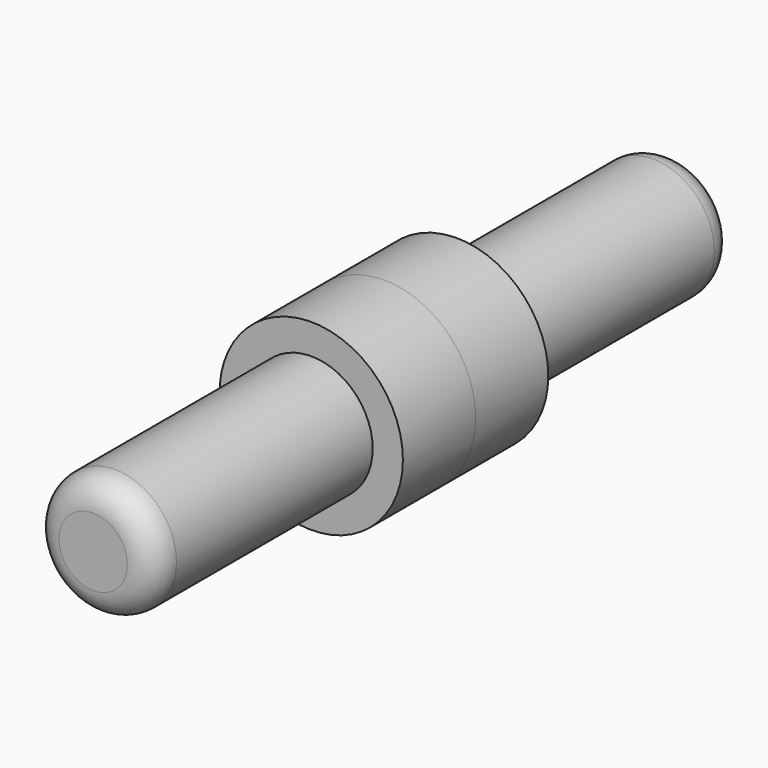
from build123d import *

# Parameters (mm, degrees)
F0_R     = 25.616531
F1_DEPTH = 25.4
F2_R     = 17.167247
F3_DEPTH = 76.2
F4_R     = 7.62


with BuildPart() as f1:
    # F0 (on Front) → F1 (new body)
    with BuildSketch(Plane.XZ):
        Circle(F0_R)
    extrude(amount=F1_DEPTH)

    # F2 (on face) → F3 (join)
    with BuildSketch(Plane.XZ.offset(25.4)):
        Circle(F2_R)
    extrude(amount=F3_DEPTH)

    # F4
    f4_edges = [f1.edges().sort_by_distance(p)[0] for p in [
        (-17.167247, -101.6, 0),
    ]]
    fillet(f4_edges, radius=F4_R)


with BuildPart() as f5_1:
    # F5: instance of F1
    add(f1.part.mirror(Plane.XZ))


solid = Compound([f1.part, f5_1.part])
